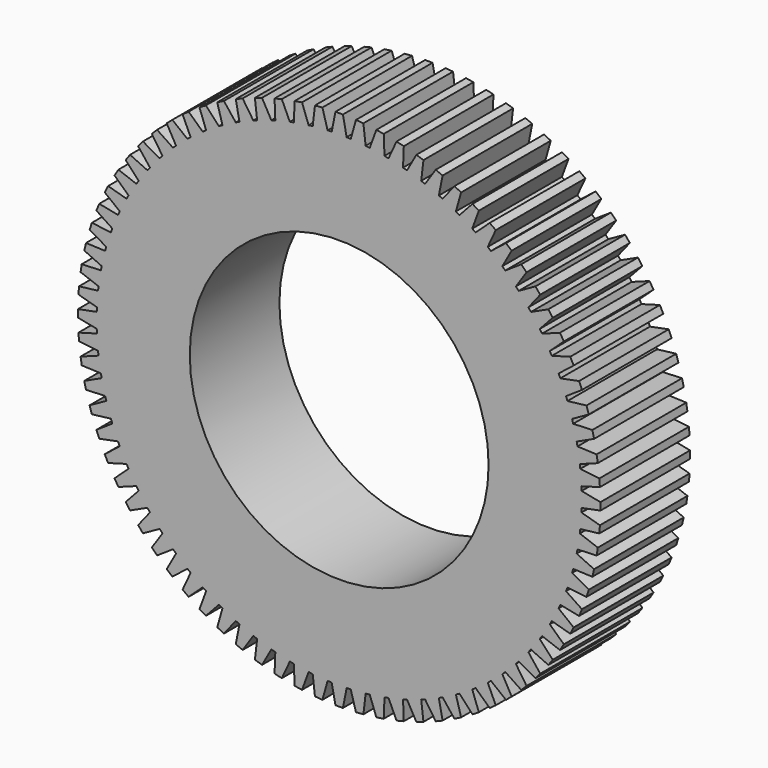
from build123d import *

# Parameters (mm, degrees)
F1_DEPTH = 15
F2_R     = 20
F3_DEPTH = 15.001


with BuildPart() as f1:
    # F0 (on Front) → F1 (new body)
    with BuildSketch(Plane.XZ):
        with BuildLine():
            ThreePointArc((32.453341, -0.999867), (32.46489, -0.499993), (32.46874, 0))
            ThreePointArc((32.46874, 0), (32.46489, 0.499993), (32.453341, 0.999867))
            ThreePointArc((32.453341, 0.999867), (32.443707, 1.274717), (32.431746, 1.549475))
            ThreePointArc((32.431746, 1.549475), (32.368649, 2.547468), (32.274849, 3.543044))
            ThreePointArc((32.274849, 3.543044), (32.243681, 3.816291), (32.2102, 4.089264))
            ThreePointArc((32.2102, 4.089264), (32.068995, 5.07923), (31.897372, 6.064378))
            ThreePointArc((31.897372, 6.064378), (31.844862, 6.334337), (31.790066, 6.603842))
            ThreePointArc((31.790066, 6.603842), (31.571626, 7.579677), (31.323238, 8.548322))
            ThreePointArc((31.323238, 8.548322), (31.249708, 8.813329), (31.173937, 9.077704))
            ThreePointArc((31.173937, 9.077704), (30.879606, 10.033392), (30.555985, 10.979563))
            ThreePointArc((30.555985, 10.979563), (30.46189, 11.237985), (30.365609, 11.495599))
            ThreePointArc((30.365609, 11.495599), (29.997204, 12.425249), (29.600345, 13.343112))
            ThreePointArc((29.600345, 13.343112), (29.486264, 13.593354), (29.370068, 13.842621))
            ThreePointArc((29.370068, 13.842621), (28.929859, 14.740499), (28.462208, 15.624396))
            ThreePointArc((28.462208, 15.624396), (28.328846, 15.864916), (28.19345, 16.104297))
            ThreePointArc((28.19345, 16.104297), (27.684151, 16.96487), (27.148593, 17.80935))
            ThreePointArc((27.148593, 17.80935), (26.99677, 18.038665), (26.843011, 18.266686))
            ThreePointArc((26.843011, 18.266686), (26.267762, 19.084646), (25.667597, 19.884504))
            ThreePointArc((25.667597, 19.884504), (25.498251, 20.1012), (25.327075, 20.316454))
            ThreePointArc((25.327075, 20.316454), (24.689423, 21.08676), (24.028352, 21.837063))
            ThreePointArc((24.028352, 21.837063), (23.842526, 22.039805), (23.65499, 22.240965))
            ThreePointArc((23.65499, 22.240965), (22.958866, 22.958866), (22.240965, 23.65499))
            ThreePointArc((22.240965, 23.65499), (22.039805, 23.842526), (21.837063, 24.028352))
            ThreePointArc((21.837063, 24.028352), (21.08676, 24.689423), (20.316454, 25.327075))
            ThreePointArc((20.316454, 25.327075), (20.1012, 25.498251), (19.884504, 25.667597))
            ThreePointArc((19.884504, 25.667597), (19.084646, 26.267762), (18.266686, 26.843011))
            ThreePointArc((18.266686, 26.843011), (18.038665, 26.99677), (17.80935, 27.148593))
            ThreePointArc((17.80935, 27.148593), (16.96487, 27.684151), (16.104297, 28.19345))
            ThreePointArc((16.104297, 28.19345), (15.864916, 28.328846), (15.624396, 28.462208))
            ThreePointArc((15.624396, 28.462208), (14.740499, 28.929859), (13.842621, 29.370068))
            ThreePointArc((13.842621, 29.370068), (13.593354, 29.486264), (13.343112, 29.600345))
            ThreePointArc((13.343112, 29.600345), (12.425249, 29.997204), (11.495599, 30.365609))
            ThreePointArc((11.495599, 30.365609), (11.237985, 30.46189), (10.979563, 30.555985))
            ThreePointArc((10.979563, 30.555985), (10.033392, 30.879606), (9.077704, 31.173937))
            ThreePointArc((9.077704, 31.173937), (8.813329, 31.249708), (8.548322, 31.323238))
            ThreePointArc((8.548322, 31.323238), (7.579677, 31.571626), (6.603842, 31.790066))
            ThreePointArc((6.603842, 31.790066), (6.334337, 31.844862), (6.064378, 31.897372))
            ThreePointArc((6.064378, 31.897372), (5.07923, 32.068995), (4.089264, 32.2102))
            ThreePointArc((4.089264, 32.2102), (3.816291, 32.243681), (3.543044, 32.274849))
            ThreePointArc((3.543044, 32.274849), (2.547468, 32.368649), (1.549475, 32.431746))
            ThreePointArc((1.549475, 32.431746), (1.274717, 32.443707), (0.999867, 32.453341))
            ThreePointArc((0.999867, 32.453341), (0, 32.46874), (-0.999867, 32.453341))
            ThreePointArc((-0.999867, 32.453341), (-1.274717, 32.443707), (-1.549475, 32.431746))
            ThreePointArc((-1.549475, 32.431746), (-2.547468, 32.368649), (-3.543044, 32.274849))
            ThreePointArc((-3.543044, 32.274849), (-3.816291, 32.243681), (-4.089264, 32.2102))
            ThreePointArc((-4.089264, 32.2102), (-5.07923, 32.068995), (-6.064378, 31.897372))
            ThreePointArc((-6.064378, 31.897372), (-6.334337, 31.844862), (-6.603842, 31.790066))
            ThreePointArc((-6.603842, 31.790066), (-7.579677, 31.571626), (-8.548322, 31.323238))
            ThreePointArc((-8.548322, 31.323238), (-8.813329, 31.249708), (-9.077704, 31.173937))
            ThreePointArc((-9.077704, 31.173937), (-10.033392, 30.879606), (-10.979563, 30.555985))
            ThreePointArc((-10.979563, 30.555985), (-11.237985, 30.46189), (-11.495599, 30.365609))
            ThreePointArc((-11.495599, 30.365609), (-12.425249, 29.997204), (-13.343112, 29.600345))
            ThreePointArc((-13.343112, 29.600345), (-13.593354, 29.486264), (-13.842621, 29.370068))
            ThreePointArc((-13.842621, 29.370068), (-14.740499, 28.929859), (-15.624396, 28.462208))
            ThreePointArc((-15.624396, 28.462208), (-15.864916, 28.328846), (-16.104297, 28.19345))
            ThreePointArc((-16.104297, 28.19345), (-16.96487, 27.684151), (-17.80935, 27.148593))
            ThreePointArc((-17.80935, 27.148593), (-18.038665, 26.99677), (-18.266686, 26.843011))
            ThreePointArc((-18.266686, 26.843011), (-19.084646, 26.267762), (-19.884504, 25.667597))
            ThreePointArc((-19.884504, 25.667597), (-20.1012, 25.498251), (-20.316454, 25.327075))
            ThreePointArc((-20.316454, 25.327075), (-21.08676, 24.689423), (-21.837063, 24.028352))
            ThreePointArc((-21.837063, 24.028352), (-22.039805, 23.842526), (-22.240965, 23.65499))
            ThreePointArc((-22.240965, 23.65499), (-22.958866, 22.958866), (-23.65499, 22.240965))
            ThreePointArc((-23.65499, 22.240965), (-23.842526, 22.039805), (-24.028352, 21.837063))
            ThreePointArc((-24.028352, 21.837063), (-24.689423, 21.08676), (-25.327075, 20.316454))
            ThreePointArc((-25.327075, 20.316454), (-25.498251, 20.1012), (-25.667597, 19.884504))
            ThreePointArc((-25.667597, 19.884504), (-26.267762, 19.084646), (-26.843011, 18.266686))
            ThreePointArc((-26.843011, 18.266686), (-26.99677, 18.038665), (-27.148593, 17.80935))
            ThreePointArc((-27.148593, 17.80935), (-27.684151, 16.96487), (-28.19345, 16.104297))
            ThreePointArc((-28.19345, 16.104297), (-28.328846, 15.864916), (-28.462208, 15.624396))
            ThreePointArc((-28.462208, 15.624396), (-28.929859, 14.740499), (-29.370068, 13.842621))
            ThreePointArc((-29.370068, 13.842621), (-29.486264, 13.593354), (-29.600345, 13.343112))
            ThreePointArc((-29.600345, 13.343112), (-29.997204, 12.425249), (-30.365609, 11.495599))
            ThreePointArc((-30.365609, 11.495599), (-30.46189, 11.237985), (-30.555985, 10.979563))
            ThreePointArc((-30.555985, 10.979563), (-30.879606, 10.033392), (-31.173937, 9.077704))
            ThreePointArc((-31.173937, 9.077704), (-31.249708, 8.813329), (-31.323238, 8.548322))
            ThreePointArc((-31.323238, 8.548322), (-31.571626, 7.579677), (-31.790066, 6.603842))
            ThreePointArc((-31.790066, 6.603842), (-31.844862, 6.334337), (-31.897372, 6.064378))
            ThreePointArc((-31.897372, 6.064378), (-32.068995, 5.07923), (-32.2102, 4.089264))
            ThreePointArc((-32.2102, 4.089264), (-32.243681, 3.816291), (-32.274849, 3.543044))
            ThreePointArc((-32.274849, 3.543044), (-32.368649, 2.547468), (-32.431746, 1.549475))
            ThreePointArc((-32.431746, 1.549475), (-32.443707, 1.274717), (-32.453341, 0.999867))
            ThreePointArc((-32.453341, 0.999867), (-32.46874, 0), (-32.453341, -0.999867))
            ThreePointArc((-32.453341, -0.999867), (-32.443707, -1.274717), (-32.431746, -1.549475))
            ThreePointArc((-32.431746, -1.549475), (-32.368649, -2.547468), (-32.274849, -3.543044))
            ThreePointArc((-32.274849, -3.543044), (-32.243681, -3.816291), (-32.2102, -4.089264))
            ThreePointArc((-32.2102, -4.089264), (-32.068995, -5.07923), (-31.897372, -6.064378))
            ThreePointArc((-31.897372, -6.064378), (-31.844862, -6.334337), (-31.790066, -6.603842))
            ThreePointArc((-31.790066, -6.603842), (-31.571626, -7.579677), (-31.323238, -8.548322))
            ThreePointArc((-31.323238, -8.548322), (-31.249708, -8.813329), (-31.173937, -9.077704))
            ThreePointArc((-31.173937, -9.077704), (-30.879606, -10.033392), (-30.555985, -10.979563))
            ThreePointArc((-30.555985, -10.979563), (-30.46189, -11.237985), (-30.365609, -11.495599))
            ThreePointArc((-30.365609, -11.495599), (-29.997204, -12.425249), (-29.600345, -13.343112))
            ThreePointArc((-29.600345, -13.343112), (-29.486264, -13.593354), (-29.370068, -13.842621))
            ThreePointArc((-29.370068, -13.842621), (-28.929859, -14.740499), (-28.462208, -15.624396))
            ThreePointArc((-28.462208, -15.624396), (-28.328846, -15.864916), (-28.19345, -16.104297))
            ThreePointArc((-28.19345, -16.104297), (-27.684151, -16.96487), (-27.148593, -17.80935))
            ThreePointArc((-27.148593, -17.80935), (-26.99677, -18.038665), (-26.843011, -18.266686))
            ThreePointArc((-26.843011, -18.266686), (-26.267762, -19.084646), (-25.667597, -19.884504))
            ThreePointArc((-25.667597, -19.884504), (-25.498251, -20.1012), (-25.327075, -20.316454))
            ThreePointArc((-25.327075, -20.316454), (-24.689423, -21.08676), (-24.028352, -21.837063))
            ThreePointArc((-24.028352, -21.837063), (-23.842526, -22.039805), (-23.65499, -22.240965))
            ThreePointArc((-23.65499, -22.240965), (-22.958866, -22.958866), (-22.240965, -23.65499))
            ThreePointArc((-22.240965, -23.65499), (-22.039805, -23.842526), (-21.837063, -24.028352))
            ThreePointArc((-21.837063, -24.028352), (-21.08676, -24.689423), (-20.316454, -25.327075))
            ThreePointArc((-20.316454, -25.327075), (-20.1012, -25.498251), (-19.884504, -25.667597))
            ThreePointArc((-19.884504, -25.667597), (-19.084646, -26.267762), (-18.266686, -26.843011))
            ThreePointArc((-18.266686, -26.843011), (-18.038665, -26.99677), (-17.80935, -27.148593))
            ThreePointArc((-17.80935, -27.148593), (-16.96487, -27.684151), (-16.104297, -28.19345))
            ThreePointArc((-16.104297, -28.19345), (-15.864916, -28.328846), (-15.624396, -28.462208))
            ThreePointArc((-15.624396, -28.462208), (-14.740499, -28.929859), (-13.842621, -29.370068))
            ThreePointArc((-13.842621, -29.370068), (-13.593354, -29.486264), (-13.343112, -29.600345))
            ThreePointArc((-13.343112, -29.600345), (-12.425249, -29.997204), (-11.495599, -30.365609))
            ThreePointArc((-11.495599, -30.365609), (-11.237985, -30.46189), (-10.979563, -30.555985))
            ThreePointArc((-10.979563, -30.555985), (-10.033392, -30.879606), (-9.077704, -31.173937))
            ThreePointArc((-9.077704, -31.173937), (-8.813329, -31.249708), (-8.548322, -31.323238))
            ThreePointArc((-8.548322, -31.323238), (-7.579677, -31.571626), (-6.603842, -31.790066))
            ThreePointArc((-6.603842, -31.790066), (-6.334337, -31.844862), (-6.064378, -31.897372))
            ThreePointArc((-6.064378, -31.897372), (-5.07923, -32.068995), (-4.089264, -32.2102))
            ThreePointArc((-4.089264, -32.2102), (-3.816291, -32.243681), (-3.543044, -32.274849))
            ThreePointArc((-3.543044, -32.274849), (-2.547468, -32.368649), (-1.549475, -32.431746))
            ThreePointArc((-1.549475, -32.431746), (-1.274717, -32.443707), (-0.999867, -32.453341))
            ThreePointArc((-0.999867, -32.453341), (0, -32.46874), (0.999867, -32.453341))
            ThreePointArc((0.999867, -32.453341), (1.274717, -32.443707), (1.549475, -32.431746))
            ThreePointArc((1.549475, -32.431746), (2.547468, -32.368649), (3.543044, -32.274849))
            ThreePointArc((3.543044, -32.274849), (3.816291, -32.243681), (4.089264, -32.2102))
            ThreePointArc((4.089264, -32.2102), (5.07923, -32.068995), (6.064378, -31.897372))
            ThreePointArc((6.064378, -31.897372), (6.334337, -31.844862), (6.603842, -31.790066))
            ThreePointArc((6.603842, -31.790066), (7.579677, -31.571626), (8.548322, -31.323238))
            ThreePointArc((8.548322, -31.323238), (8.813329, -31.249708), (9.077704, -31.173937))
            ThreePointArc((9.077704, -31.173937), (10.033392, -30.879606), (10.979563, -30.555985))
            ThreePointArc((10.979563, -30.555985), (11.237985, -30.46189), (11.495599, -30.365609))
            ThreePointArc((11.495599, -30.365609), (12.425249, -29.997204), (13.343112, -29.600345))
            ThreePointArc((13.343112, -29.600345), (13.593354, -29.486264), (13.842621, -29.370068))
            ThreePointArc((13.842621, -29.370068), (14.740499, -28.929859), (15.624396, -28.462208))
            ThreePointArc((15.624396, -28.462208), (15.864916, -28.328846), (16.104297, -28.19345))
            ThreePointArc((16.104297, -28.19345), (16.96487, -27.684151), (17.80935, -27.148593))
            ThreePointArc((17.80935, -27.148593), (18.038665, -26.99677), (18.266686, -26.843011))
            ThreePointArc((18.266686, -26.843011), (19.084646, -26.267762), (19.884504, -25.667597))
            ThreePointArc((19.884504, -25.667597), (20.1012, -25.498251), (20.316454, -25.327075))
            ThreePointArc((20.316454, -25.327075), (21.08676, -24.689423), (21.837063, -24.028352))
            ThreePointArc((21.837063, -24.028352), (22.039805, -23.842526), (22.240965, -23.65499))
            ThreePointArc((22.240965, -23.65499), (22.958866, -22.958866), (23.65499, -22.240965))
            ThreePointArc((23.65499, -22.240965), (23.842526, -22.039805), (24.028352, -21.837063))
            ThreePointArc((24.028352, -21.837063), (24.689423, -21.08676), (25.327075, -20.316454))
            ThreePointArc((25.327075, -20.316454), (25.498251, -20.1012), (25.667597, -19.884504))
            ThreePointArc((25.667597, -19.884504), (26.267762, -19.084646), (26.843011, -18.266686))
            ThreePointArc((26.843011, -18.266686), (26.99677, -18.038665), (27.148593, -17.80935))
            ThreePointArc((27.148593, -17.80935), (27.684151, -16.96487), (28.19345, -16.104297))
            ThreePointArc((28.19345, -16.104297), (28.328846, -15.864916), (28.462208, -15.624396))
            ThreePointArc((28.462208, -15.624396), (28.929859, -14.740499), (29.370068, -13.842621))
            ThreePointArc((29.370068, -13.842621), (29.486264, -13.593354), (29.600345, -13.343112))
            ThreePointArc((29.600345, -13.343112), (29.997204, -12.425249), (30.365609, -11.495599))
            ThreePointArc((30.365609, -11.495599), (30.46189, -11.237985), (30.555985, -10.979563))
            ThreePointArc((30.555985, -10.979563), (30.879606, -10.033392), (31.173937, -9.077704))
            ThreePointArc((31.173937, -9.077704), (31.249708, -8.813329), (31.323238, -8.548322))
            ThreePointArc((31.323238, -8.548322), (31.571626, -7.579677), (31.790066, -6.603842))
            ThreePointArc((31.790066, -6.603842), (31.844862, -6.334337), (31.897372, -6.064378))
            ThreePointArc((31.897372, -6.064378), (32.068995, -5.07923), (32.2102, -4.089264))
            ThreePointArc((32.2102, -4.089264), (32.243681, -3.816291), (32.274849, -3.543044))
            ThreePointArc((32.274849, -3.543044), (32.368649, -2.547468), (32.431746, -1.549475))
            ThreePointArc((32.431746, -1.549475), (32.443707, -1.274717), (32.453341, -0.999867))
        make_face()
        with BuildLine():
            ThreePointArc((32.453341, 0.999867), (32.46489, 0.499993), (32.46874, 0))
            ThreePointArc((32.46874, 0), (32.46489, -0.499993), (32.453341, -0.999867))
            Line((32.453341, -0.999867), (34.968736, -0.5))
            Line((34.968736, -0.5), (34.968736, 0.5))
            Line((34.968736, 0.5), (32.453341, 0.999867))
        make_face()
        with BuildLine():
            ThreePointArc((32.274849, 3.543044), (32.368649, 2.547468), (32.431746, 1.549475))
            Line((32.431746, 1.549475), (34.900168, 2.245157))
            Line((34.900168, 2.245157), (34.821709, 3.242074))
            Line((34.821709, 3.242074), (32.274849, 3.543044))
        make_face()
        with BuildLine():
            Line((34.900168, -2.245157), (32.431746, -1.549475))
            ThreePointArc((32.431746, -1.549475), (32.368649, -2.547468), (32.274849, -3.543044))
            Line((32.274849, -3.543044), (34.821709, -3.242074))
            Line((34.821709, -3.242074), (34.900168, -2.245157))
        make_face()
        with BuildLine():
            ThreePointArc((31.897372, 6.064378), (32.068995, 5.07923), (32.2102, 4.089264))
            Line((32.2102, 4.089264), (34.61643, 4.976471))
            Line((34.61643, 4.976471), (34.459995, 5.96416))
            Line((34.459995, 5.96416), (31.897372, 6.064378))
        make_face()
        with BuildLine():
            Line((34.61643, -4.976471), (32.2102, -4.089264))
            ThreePointArc((32.2102, -4.089264), (32.068995, -5.07923), (31.897372, -6.064378))
            Line((31.897372, -6.064378), (34.459995, -5.96416))
            Line((34.459995, -5.96416), (34.61643, -4.976471))
        make_face()
        with BuildLine():
            ThreePointArc((31.323238, 8.548322), (31.571626, 7.579677), (31.790066, 6.603842))
            Line((31.790066, 6.603842), (34.11927, 7.677104))
            Line((34.11927, 7.677104), (33.885824, 8.649474))
            Line((33.885824, 8.649474), (31.323238, 8.548322))
        make_face()
        with BuildLine():
            Line((34.11927, -7.677104), (31.790066, -6.603842))
            ThreePointArc((31.790066, -6.603842), (31.571626, -7.579677), (31.323238, -8.548322))
            Line((31.323238, -8.548322), (33.885824, -8.649474))
            Line((33.885824, -8.649474), (34.11927, -7.677104))
        make_face()
        with BuildLine():
            ThreePointArc((30.555985, 10.979563), (30.879606, 10.033392), (31.173937, 9.077704))
            Line((31.173937, 9.077704), (33.411753, 10.330405))
            Line((33.411753, 10.330405), (33.102736, 11.281462))
            Line((33.102736, 11.281462), (30.555985, 10.979563))
        make_face()
        with BuildLine():
            Line((33.411753, -10.330405), (31.173937, -9.077704))
            ThreePointArc((31.173937, -9.077704), (30.879606, -10.033392), (30.555985, -10.979563))
            Line((30.555985, -10.979563), (33.102736, -11.281462))
            Line((33.102736, -11.281462), (33.411753, -10.330405))
        make_face()
        with BuildLine():
            ThreePointArc((29.600345, 13.343112), (29.997204, 12.425249), (30.365609, 11.495599))
            Line((30.365609, 11.495599), (32.498241, 12.920016))
            Line((32.498241, 12.920016), (32.115558, 13.843896))
            Line((32.115558, 13.843896), (29.600345, 13.343112))
        make_face()
        with BuildLine():
            Line((32.498241, -12.920016), (30.365609, -11.495599))
            ThreePointArc((30.365609, -11.495599), (29.997204, -12.425249), (29.600345, -13.343112))
            Line((29.600345, -13.343112), (32.115558, -13.843896))
            Line((32.115558, -13.843896), (32.498241, -12.920016))
        make_face()
        with BuildLine():
            ThreePointArc((28.462208, 15.624396), (28.929859, 14.740499), (29.370068, 13.842621))
            Line((29.370068, 13.842621), (31.384367, 15.429971))
            Line((31.384367, 15.429971), (30.930377, 16.320977))
            Line((30.930377, 16.320977), (28.462208, 15.624396))
        make_face()
        with BuildLine():
            Line((31.384367, -15.429971), (29.370068, -13.842621))
            ThreePointArc((29.370068, -13.842621), (28.929859, -14.740499), (28.462208, -15.624396))
            Line((28.462208, -15.624396), (30.930377, -16.320977))
            Line((30.930377, -16.320977), (31.384367, -15.429971))
        make_face()
        with BuildLine():
            ThreePointArc((27.148593, 17.80935), (27.684151, 16.96487), (28.19345, 16.104297))
            Line((28.19345, 16.104297), (30.076998, 17.844794))
            Line((30.076998, 17.844794), (29.554499, 18.697434))
            Line((29.554499, 18.697434), (27.148593, 17.80935))
        make_face()
        with BuildLine():
            Line((30.076998, -17.844794), (28.19345, -16.104297))
            ThreePointArc((28.19345, -16.104297), (27.684151, -16.96487), (27.148593, -17.80935))
            Line((27.148593, -17.80935), (29.554499, -18.697434))
            Line((29.554499, -18.697434), (30.076998, -17.844794))
        make_face()
        with BuildLine():
            ThreePointArc((25.667597, 19.884504), (26.267762, 19.084646), (26.843011, 18.266686))
            Line((26.843011, 18.266686), (28.584194, 20.149599))
            Line((28.584194, 20.149599), (27.996409, 20.958616))
            Line((27.996409, 20.958616), (25.667597, 19.884504))
        make_face()
        with BuildLine():
            Line((28.584194, -20.149599), (26.843011, -18.266686))
            ThreePointArc((26.843011, -18.266686), (26.267762, -19.084646), (25.667597, -19.884504))
            Line((25.667597, -19.884504), (27.996409, -20.958616))
            Line((27.996409, -20.958616), (28.584194, -20.149599))
        make_face()
        with BuildLine():
            ThreePointArc((24.028352, 21.837063), (24.689423, 21.08676), (25.327075, 20.316454))
            Line((25.327075, 20.316454), (26.915159, 22.330174))
            Line((26.915159, 22.330174), (26.265711, 23.09058))
            Line((26.265711, 23.09058), (24.028352, 21.837063))
        make_face()
        with BuildLine():
            Line((26.915159, -22.330174), (25.327075, -20.316454))
            ThreePointArc((25.327075, -20.316454), (24.689423, -21.08676), (24.028352, -21.837063))
            Line((24.028352, -21.837063), (26.265711, -23.09058))
            Line((26.265711, -23.09058), (26.915159, -22.330174))
        make_face()
        with BuildLine():
            ThreePointArc((22.240965, 23.65499), (22.958866, 22.958866), (23.65499, 22.240965))
            Line((23.65499, 22.240965), (25.080184, 24.373077))
            Line((25.080184, 24.373077), (24.373077, 25.080184))
            Line((24.373077, 25.080184), (22.240965, 23.65499))
        make_face()
        with BuildLine():
            Line((25.080184, -24.373077), (23.65499, -22.240965))
            ThreePointArc((23.65499, -22.240965), (22.958866, -22.958866), (22.240965, -23.65499))
            Line((22.240965, -23.65499), (24.373077, -25.080184))
            Line((24.373077, -25.080184), (25.080184, -24.373077))
        make_face()
        with BuildLine():
            ThreePointArc((20.316454, 25.327075), (21.08676, 24.689423), (21.837063, 24.028352))
            Line((21.837063, 24.028352), (23.09058, 26.265711))
            Line((23.09058, 26.265711), (22.330174, 26.915159))
            Line((22.330174, 26.915159), (20.316454, 25.327075))
        make_face()
        with BuildLine():
            Line((23.09058, -26.265711), (21.837063, -24.028352))
            ThreePointArc((21.837063, -24.028352), (21.08676, -24.689423), (20.316454, -25.327075))
            Line((20.316454, -25.327075), (22.330174, -26.915159))
            Line((22.330174, -26.915159), (23.09058, -26.265711))
        make_face()
        with BuildLine():
            ThreePointArc((18.266686, 26.843011), (19.084646, 26.267762), (19.884504, 25.667597))
            Line((19.884504, 25.667597), (20.958616, 27.996409))
            Line((20.958616, 27.996409), (20.149599, 28.584194))
            Line((20.149599, 28.584194), (18.266686, 26.843011))
        make_face()
        with BuildLine():
            Line((20.958616, -27.996409), (19.884504, -25.667597))
            ThreePointArc((19.884504, -25.667597), (19.084646, -26.267762), (18.266686, -26.843011))
            Line((18.266686, -26.843011), (20.149599, -28.584194))
            Line((20.149599, -28.584194), (20.958616, -27.996409))
        make_face()
        with BuildLine():
            ThreePointArc((16.104297, 28.19345), (16.96487, 27.684151), (17.80935, 27.148593))
            Line((17.80935, 27.148593), (18.697434, 29.554499))
            Line((18.697434, 29.554499), (17.844794, 30.076998))
            Line((17.844794, 30.076998), (16.104297, 28.19345))
        make_face()
        with BuildLine():
            Line((18.697434, -29.554499), (17.80935, -27.148593))
            ThreePointArc((17.80935, -27.148593), (16.96487, -27.684151), (16.104297, -28.19345))
            Line((16.104297, -28.19345), (17.844794, -30.076998))
            Line((17.844794, -30.076998), (18.697434, -29.554499))
        make_face()
        with BuildLine():
            ThreePointArc((13.842621, 29.370068), (14.740499, 28.929859), (15.624396, 28.462208))
            Line((15.624396, 28.462208), (16.320977, 30.930377))
            Line((16.320977, 30.930377), (15.429971, 31.384367))
            Line((15.429971, 31.384367), (13.842621, 29.370068))
        make_face()
        with BuildLine():
            Line((16.320977, -30.930377), (15.624396, -28.462208))
            ThreePointArc((15.624396, -28.462208), (14.740499, -28.929859), (13.842621, -29.370068))
            Line((13.842621, -29.370068), (15.429971, -31.384367))
            Line((15.429971, -31.384367), (16.320977, -30.930377))
        make_face()
        with BuildLine():
            ThreePointArc((11.495599, 30.365609), (12.425249, 29.997204), (13.343112, 29.600345))
            Line((13.343112, 29.600345), (13.843896, 32.115558))
            Line((13.843896, 32.115558), (12.920016, 32.498241))
            Line((12.920016, 32.498241), (11.495599, 30.365609))
        make_face()
        with BuildLine():
            Line((13.843896, -32.115558), (13.343112, -29.600345))
            ThreePointArc((13.343112, -29.600345), (12.425249, -29.997204), (11.495599, -30.365609))
            Line((11.495599, -30.365609), (12.920016, -32.498241))
            Line((12.920016, -32.498241), (13.843896, -32.115558))
        make_face()
        with BuildLine():
            ThreePointArc((9.077704, 31.173937), (10.033392, 30.879606), (10.979563, 30.555985))
            Line((10.979563, 30.555985), (11.281462, 33.102736))
            Line((11.281462, 33.102736), (10.330405, 33.411753))
            Line((10.330405, 33.411753), (9.077704, 31.173937))
        make_face()
        with BuildLine():
            Line((11.281462, -33.102736), (10.979563, -30.555985))
            ThreePointArc((10.979563, -30.555985), (10.033392, -30.879606), (9.077704, -31.173937))
            Line((9.077704, -31.173937), (10.330405, -33.411753))
            Line((10.330405, -33.411753), (11.281462, -33.102736))
        make_face()
        with BuildLine():
            ThreePointArc((6.603842, 31.790066), (7.579677, 31.571626), (8.548322, 31.323238))
            Line((8.548322, 31.323238), (8.649474, 33.885824))
            Line((8.649474, 33.885824), (7.677104, 34.11927))
            Line((7.677104, 34.11927), (6.603842, 31.790066))
        make_face()
        with BuildLine():
            Line((8.649474, -33.885824), (8.548322, -31.323238))
            ThreePointArc((8.548322, -31.323238), (7.579677, -31.571626), (6.603842, -31.790066))
            Line((6.603842, -31.790066), (7.677104, -34.11927))
            Line((7.677104, -34.11927), (8.649474, -33.885824))
        make_face()
        with BuildLine():
            ThreePointArc((4.089264, 32.2102), (5.07923, 32.068995), (6.064378, 31.897372))
            Line((6.064378, 31.897372), (5.96416, 34.459995))
            Line((5.96416, 34.459995), (4.976471, 34.61643))
            Line((4.976471, 34.61643), (4.089264, 32.2102))
        make_face()
        with BuildLine():
            Line((5.96416, -34.459995), (6.064378, -31.897372))
            ThreePointArc((6.064378, -31.897372), (5.07923, -32.068995), (4.089264, -32.2102))
            Line((4.089264, -32.2102), (4.976471, -34.61643))
            Line((4.976471, -34.61643), (5.96416, -34.459995))
        make_face()
        with BuildLine():
            ThreePointArc((1.549475, 32.431746), (2.547468, 32.368649), (3.543044, 32.274849))
            Line((3.543044, 32.274849), (3.242074, 34.821709))
            Line((3.242074, 34.821709), (2.245157, 34.900168))
            Line((2.245157, 34.900168), (1.549475, 32.431746))
        make_face()
        with BuildLine():
            Line((3.242074, -34.821709), (3.543044, -32.274849))
            ThreePointArc((3.543044, -32.274849), (2.547468, -32.368649), (1.549475, -32.431746))
            Line((1.549475, -32.431746), (2.245157, -34.900168))
            Line((2.245157, -34.900168), (3.242074, -34.821709))
        make_face()
        with BuildLine():
            ThreePointArc((-0.999867, 32.453341), (0, 32.46874), (0.999867, 32.453341))
            Line((0.999867, 32.453341), (0.5, 34.968736))
            Line((0.5, 34.968736), (-0.5, 34.968736))
            Line((-0.5, 34.968736), (-0.999867, 32.453341))
        make_face()
        with BuildLine():
            Line((0.5, -34.968736), (0.999867, -32.453341))
            ThreePointArc((0.999867, -32.453341), (0, -32.46874), (-0.999867, -32.453341))
            Line((-0.999867, -32.453341), (-0.5, -34.968736))
            Line((-0.5, -34.968736), (0.5, -34.968736))
        make_face()
        with BuildLine():
            ThreePointArc((-3.543044, 32.274849), (-2.547468, 32.368649), (-1.549475, 32.431746))
            Line((-1.549475, 32.431746), (-2.245157, 34.900168))
            Line((-2.245157, 34.900168), (-3.242074, 34.821709))
            Line((-3.242074, 34.821709), (-3.543044, 32.274849))
        make_face()
        with BuildLine():
            Line((-2.245157, -34.900168), (-1.549475, -32.431746))
            ThreePointArc((-1.549475, -32.431746), (-2.547468, -32.368649), (-3.543044, -32.274849))
            Line((-3.543044, -32.274849), (-3.242074, -34.821709))
            Line((-3.242074, -34.821709), (-2.245157, -34.900168))
        make_face()
        with BuildLine():
            ThreePointArc((-6.064378, 31.897372), (-5.07923, 32.068995), (-4.089264, 32.2102))
            Line((-4.089264, 32.2102), (-4.976471, 34.61643))
            Line((-4.976471, 34.61643), (-5.96416, 34.459995))
            Line((-5.96416, 34.459995), (-6.064378, 31.897372))
        make_face()
        with BuildLine():
            Line((-4.976471, -34.61643), (-4.089264, -32.2102))
            ThreePointArc((-4.089264, -32.2102), (-5.07923, -32.068995), (-6.064378, -31.897372))
            Line((-6.064378, -31.897372), (-5.96416, -34.459995))
            Line((-5.96416, -34.459995), (-4.976471, -34.61643))
        make_face()
        with BuildLine():
            ThreePointArc((-8.548322, 31.323238), (-7.579677, 31.571626), (-6.603842, 31.790066))
            Line((-6.603842, 31.790066), (-7.677104, 34.11927))
            Line((-7.677104, 34.11927), (-8.649474, 33.885824))
            Line((-8.649474, 33.885824), (-8.548322, 31.323238))
        make_face()
        with BuildLine():
            Line((-7.677104, -34.11927), (-6.603842, -31.790066))
            ThreePointArc((-6.603842, -31.790066), (-7.579677, -31.571626), (-8.548322, -31.323238))
            Line((-8.548322, -31.323238), (-8.649474, -33.885824))
            Line((-8.649474, -33.885824), (-7.677104, -34.11927))
        make_face()
        with BuildLine():
            ThreePointArc((-10.979563, 30.555985), (-10.033392, 30.879606), (-9.077704, 31.173937))
            Line((-9.077704, 31.173937), (-10.330405, 33.411753))
            Line((-10.330405, 33.411753), (-11.281462, 33.102736))
            Line((-11.281462, 33.102736), (-10.979563, 30.555985))
        make_face()
        with BuildLine():
            Line((-10.330405, -33.411753), (-9.077704, -31.173937))
            ThreePointArc((-9.077704, -31.173937), (-10.033392, -30.879606), (-10.979563, -30.555985))
            Line((-10.979563, -30.555985), (-11.281462, -33.102736))
            Line((-11.281462, -33.102736), (-10.330405, -33.411753))
        make_face()
        with BuildLine():
            ThreePointArc((-13.343112, 29.600345), (-12.425249, 29.997204), (-11.495599, 30.365609))
            Line((-11.495599, 30.365609), (-12.920016, 32.498241))
            Line((-12.920016, 32.498241), (-13.843896, 32.115558))
            Line((-13.843896, 32.115558), (-13.343112, 29.600345))
        make_face()
        with BuildLine():
            Line((-12.920016, -32.498241), (-11.495599, -30.365609))
            ThreePointArc((-11.495599, -30.365609), (-12.425249, -29.997204), (-13.343112, -29.600345))
            Line((-13.343112, -29.600345), (-13.843896, -32.115558))
            Line((-13.843896, -32.115558), (-12.920016, -32.498241))
        make_face()
        with BuildLine():
            ThreePointArc((-15.624396, 28.462208), (-14.740499, 28.929859), (-13.842621, 29.370068))
            Line((-13.842621, 29.370068), (-15.429971, 31.384367))
            Line((-15.429971, 31.384367), (-16.320977, 30.930377))
            Line((-16.320977, 30.930377), (-15.624396, 28.462208))
        make_face()
        with BuildLine():
            Line((-15.429971, -31.384367), (-13.842621, -29.370068))
            ThreePointArc((-13.842621, -29.370068), (-14.740499, -28.929859), (-15.624396, -28.462208))
            Line((-15.624396, -28.462208), (-16.320977, -30.930377))
            Line((-16.320977, -30.930377), (-15.429971, -31.384367))
        make_face()
        with BuildLine():
            ThreePointArc((-17.80935, 27.148593), (-16.96487, 27.684151), (-16.104297, 28.19345))
            Line((-16.104297, 28.19345), (-17.844794, 30.076998))
            Line((-17.844794, 30.076998), (-18.697434, 29.554499))
            Line((-18.697434, 29.554499), (-17.80935, 27.148593))
        make_face()
        with BuildLine():
            Line((-17.844794, -30.076998), (-16.104297, -28.19345))
            ThreePointArc((-16.104297, -28.19345), (-16.96487, -27.684151), (-17.80935, -27.148593))
            Line((-17.80935, -27.148593), (-18.697434, -29.554499))
            Line((-18.697434, -29.554499), (-17.844794, -30.076998))
        make_face()
        with BuildLine():
            ThreePointArc((-19.884504, 25.667597), (-19.084646, 26.267762), (-18.266686, 26.843011))
            Line((-18.266686, 26.843011), (-20.149599, 28.584194))
            Line((-20.149599, 28.584194), (-20.958616, 27.996409))
            Line((-20.958616, 27.996409), (-19.884504, 25.667597))
        make_face()
        with BuildLine():
            Line((-20.149599, -28.584194), (-18.266686, -26.843011))
            ThreePointArc((-18.266686, -26.843011), (-19.084646, -26.267762), (-19.884504, -25.667597))
            Line((-19.884504, -25.667597), (-20.958616, -27.996409))
            Line((-20.958616, -27.996409), (-20.149599, -28.584194))
        make_face()
        with BuildLine():
            ThreePointArc((-21.837063, 24.028352), (-21.08676, 24.689423), (-20.316454, 25.327075))
            Line((-20.316454, 25.327075), (-22.330174, 26.915159))
            Line((-22.330174, 26.915159), (-23.09058, 26.265711))
            Line((-23.09058, 26.265711), (-21.837063, 24.028352))
        make_face()
        with BuildLine():
            Line((-22.330174, -26.915159), (-20.316454, -25.327075))
            ThreePointArc((-20.316454, -25.327075), (-21.08676, -24.689423), (-21.837063, -24.028352))
            Line((-21.837063, -24.028352), (-23.09058, -26.265711))
            Line((-23.09058, -26.265711), (-22.330174, -26.915159))
        make_face()
        with BuildLine():
            ThreePointArc((-23.65499, 22.240965), (-22.958866, 22.958866), (-22.240965, 23.65499))
            Line((-22.240965, 23.65499), (-24.373077, 25.080184))
            Line((-24.373077, 25.080184), (-25.080184, 24.373077))
            Line((-25.080184, 24.373077), (-23.65499, 22.240965))
        make_face()
        with BuildLine():
            Line((-24.373077, -25.080184), (-22.240965, -23.65499))
            ThreePointArc((-22.240965, -23.65499), (-22.958866, -22.958866), (-23.65499, -22.240965))
            Line((-23.65499, -22.240965), (-25.080184, -24.373077))
            Line((-25.080184, -24.373077), (-24.373077, -25.080184))
        make_face()
        with BuildLine():
            ThreePointArc((-25.327075, 20.316454), (-24.689423, 21.08676), (-24.028352, 21.837063))
            Line((-24.028352, 21.837063), (-26.265711, 23.09058))
            Line((-26.265711, 23.09058), (-26.915159, 22.330174))
            Line((-26.915159, 22.330174), (-25.327075, 20.316454))
        make_face()
        with BuildLine():
            Line((-26.265711, -23.09058), (-24.028352, -21.837063))
            ThreePointArc((-24.028352, -21.837063), (-24.689423, -21.08676), (-25.327075, -20.316454))
            Line((-25.327075, -20.316454), (-26.915159, -22.330174))
            Line((-26.915159, -22.330174), (-26.265711, -23.09058))
        make_face()
        with BuildLine():
            ThreePointArc((-26.843011, 18.266686), (-26.267762, 19.084646), (-25.667597, 19.884504))
            Line((-25.667597, 19.884504), (-27.996409, 20.958616))
            Line((-27.996409, 20.958616), (-28.584194, 20.149599))
            Line((-28.584194, 20.149599), (-26.843011, 18.266686))
        make_face()
        with BuildLine():
            Line((-27.996409, -20.958616), (-25.667597, -19.884504))
            ThreePointArc((-25.667597, -19.884504), (-26.267762, -19.084646), (-26.843011, -18.266686))
            Line((-26.843011, -18.266686), (-28.584194, -20.149599))
            Line((-28.584194, -20.149599), (-27.996409, -20.958616))
        make_face()
        with BuildLine():
            ThreePointArc((-28.19345, 16.104297), (-27.684151, 16.96487), (-27.148593, 17.80935))
            Line((-27.148593, 17.80935), (-29.554499, 18.697434))
            Line((-29.554499, 18.697434), (-30.076998, 17.844794))
            Line((-30.076998, 17.844794), (-28.19345, 16.104297))
        make_face()
        with BuildLine():
            Line((-29.554499, -18.697434), (-27.148593, -17.80935))
            ThreePointArc((-27.148593, -17.80935), (-27.684151, -16.96487), (-28.19345, -16.104297))
            Line((-28.19345, -16.104297), (-30.076998, -17.844794))
            Line((-30.076998, -17.844794), (-29.554499, -18.697434))
        make_face()
        with BuildLine():
            ThreePointArc((-29.370068, 13.842621), (-28.929859, 14.740499), (-28.462208, 15.624396))
            Line((-28.462208, 15.624396), (-30.930377, 16.320977))
            Line((-30.930377, 16.320977), (-31.384367, 15.429971))
            Line((-31.384367, 15.429971), (-29.370068, 13.842621))
        make_face()
        with BuildLine():
            Line((-30.930377, -16.320977), (-28.462208, -15.624396))
            ThreePointArc((-28.462208, -15.624396), (-28.929859, -14.740499), (-29.370068, -13.842621))
            Line((-29.370068, -13.842621), (-31.384367, -15.429971))
            Line((-31.384367, -15.429971), (-30.930377, -16.320977))
        make_face()
        with BuildLine():
            ThreePointArc((-30.365609, 11.495599), (-29.997204, 12.425249), (-29.600345, 13.343112))
            Line((-29.600345, 13.343112), (-32.115558, 13.843896))
            Line((-32.115558, 13.843896), (-32.498241, 12.920016))
            Line((-32.498241, 12.920016), (-30.365609, 11.495599))
        make_face()
        with BuildLine():
            Line((-32.115558, -13.843896), (-29.600345, -13.343112))
            ThreePointArc((-29.600345, -13.343112), (-29.997204, -12.425249), (-30.365609, -11.495599))
            Line((-30.365609, -11.495599), (-32.498241, -12.920016))
            Line((-32.498241, -12.920016), (-32.115558, -13.843896))
        make_face()
        with BuildLine():
            ThreePointArc((-31.173937, 9.077704), (-30.879606, 10.033392), (-30.555985, 10.979563))
            Line((-30.555985, 10.979563), (-33.102736, 11.281462))
            Line((-33.102736, 11.281462), (-33.411753, 10.330405))
            Line((-33.411753, 10.330405), (-31.173937, 9.077704))
        make_face()
        with BuildLine():
            Line((-33.102736, -11.281462), (-30.555985, -10.979563))
            ThreePointArc((-30.555985, -10.979563), (-30.879606, -10.033392), (-31.173937, -9.077704))
            Line((-31.173937, -9.077704), (-33.411753, -10.330405))
            Line((-33.411753, -10.330405), (-33.102736, -11.281462))
        make_face()
        with BuildLine():
            ThreePointArc((-31.790066, 6.603842), (-31.571626, 7.579677), (-31.323238, 8.548322))
            Line((-31.323238, 8.548322), (-33.885824, 8.649474))
            Line((-33.885824, 8.649474), (-34.11927, 7.677104))
            Line((-34.11927, 7.677104), (-31.790066, 6.603842))
        make_face()
        with BuildLine():
            Line((-33.885824, -8.649474), (-31.323238, -8.548322))
            ThreePointArc((-31.323238, -8.548322), (-31.571626, -7.579677), (-31.790066, -6.603842))
            Line((-31.790066, -6.603842), (-34.11927, -7.677104))
            Line((-34.11927, -7.677104), (-33.885824, -8.649474))
        make_face()
        with BuildLine():
            ThreePointArc((-32.2102, 4.089264), (-32.068995, 5.07923), (-31.897372, 6.064378))
            Line((-31.897372, 6.064378), (-34.459995, 5.96416))
            Line((-34.459995, 5.96416), (-34.61643, 4.976471))
            Line((-34.61643, 4.976471), (-32.2102, 4.089264))
        make_face()
        with BuildLine():
            Line((-34.459995, -5.96416), (-31.897372, -6.064378))
            ThreePointArc((-31.897372, -6.064378), (-32.068995, -5.07923), (-32.2102, -4.089264))
            Line((-32.2102, -4.089264), (-34.61643, -4.976471))
            Line((-34.61643, -4.976471), (-34.459995, -5.96416))
        make_face()
        with BuildLine():
            ThreePointArc((-32.431746, 1.549475), (-32.368649, 2.547468), (-32.274849, 3.543044))
            Line((-32.274849, 3.543044), (-34.821709, 3.242074))
            Line((-34.821709, 3.242074), (-34.900168, 2.245157))
            Line((-34.900168, 2.245157), (-32.431746, 1.549475))
        make_face()
        with BuildLine():
            Line((-34.821709, -3.242074), (-32.274849, -3.543044))
            ThreePointArc((-32.274849, -3.543044), (-32.368649, -2.547468), (-32.431746, -1.549475))
            Line((-32.431746, -1.549475), (-34.900168, -2.245157))
            Line((-34.900168, -2.245157), (-34.821709, -3.242074))
        make_face()
        with BuildLine():
            ThreePointArc((-32.453341, -0.999867), (-32.46874, 0), (-32.453341, 0.999867))
            Line((-32.453341, 0.999867), (-34.968736, 0.5))
            Line((-34.968736, 0.5), (-34.968736, -0.5))
            Line((-34.968736, -0.5), (-32.453341, -0.999867))
        make_face()
    extrude(amount=F1_DEPTH)

    # F2 (on Front) → F3 (cut, through all)
    with BuildSketch(Plane.XZ):
        Circle(F2_R)
    extrude(amount=F3_DEPTH, mode=Mode.SUBTRACT)


solid = f1.part
